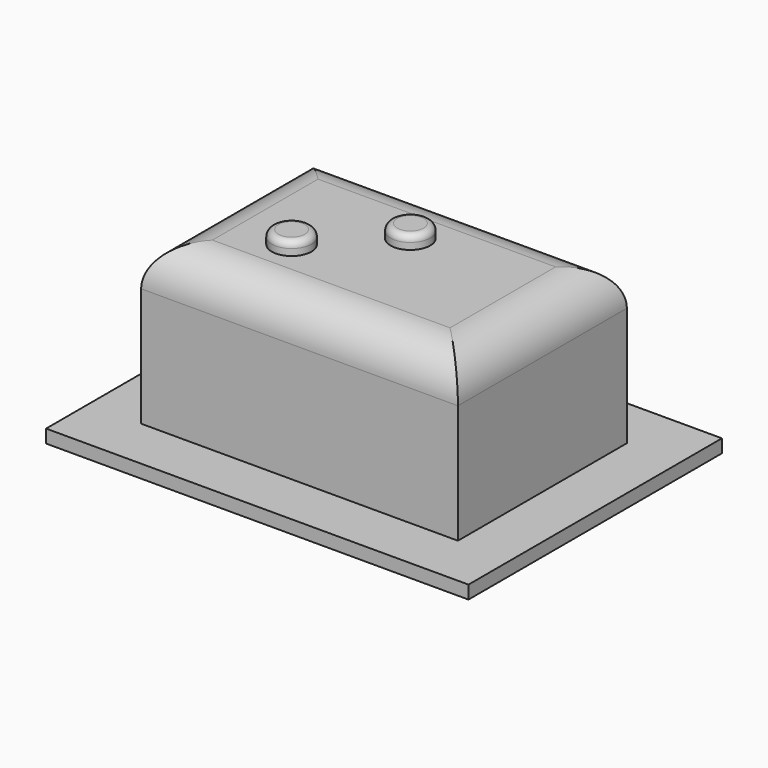
from build123d import *

# Parameters (mm, degrees)
SKETCH_W     = 16
SKETCH_H     = 12
PAD_DEPTH    = 0.5
SKETCH001_W  = 12
SKETCH001_H  = 8
PAD001_DEPTH = 6
FILLET_R     = 1.5
SKETCH002_R  = 0.75
PAD002_DEPTH = 0.5
FILLET001_R  = 0.25
SKETCH005_R  = 0.75
PAD005_DEPTH = 0.5
FILLET004_R  = 0.25


with BuildPart() as pad:
    # Sketch → Pad (new body)
    with BuildSketch(Plane.XY):
        with Locations((8, 6)):
            Rectangle(SKETCH_W, SKETCH_H)
    extrude(amount=PAD_DEPTH)


with BuildPart() as fillet_body:
    # Sketch001 → Pad001 (new body)
    with BuildSketch(Plane.XY.offset(0.5)):
        with Locations((8, 6)):
            Rectangle(SKETCH001_W, SKETCH001_H)
    extrude(amount=PAD001_DEPTH)

    # Fillet
    fillet_edges = [fillet_body.edges().sort_by_distance(p)[0] for p in [
        (8, 2, 6.5),
        (14, 6, 6.5),
        (8, 10, 6.5),
        (2, 6, 6.5),
    ]]
    fillet(fillet_edges, radius=FILLET_R)


with BuildPart() as fillet001:
    # Sketch002 → Pad002 (new body)
    with BuildSketch(Plane.XY.offset(6.5)):
        with Locations((5.5, 4.75)):
            Circle(SKETCH002_R)
    extrude(amount=PAD002_DEPTH)

    # Fillet001
    fillet001_edges = [fillet001.edges().sort_by_distance(p)[0] for p in [
        (4.75, 4.75, 7),
    ]]
    fillet(fillet001_edges, radius=FILLET001_R)


with BuildPart() as fillet004:
    # Sketch005 → Pad005 (new body)
    with BuildSketch(Plane.XY.offset(6.5)):
        with Locations((8, 7.25)):
            Circle(SKETCH005_R)
    extrude(amount=PAD005_DEPTH)

    # Fillet004
    fillet004_edges = [fillet004.edges().sort_by_distance(p)[0] for p in [
        (7.25, 7.25, 7),
    ]]
    fillet(fillet004_edges, radius=FILLET004_R)


solid = Compound([pad.part, fillet_body.part, fillet001.part, fillet004.part])
